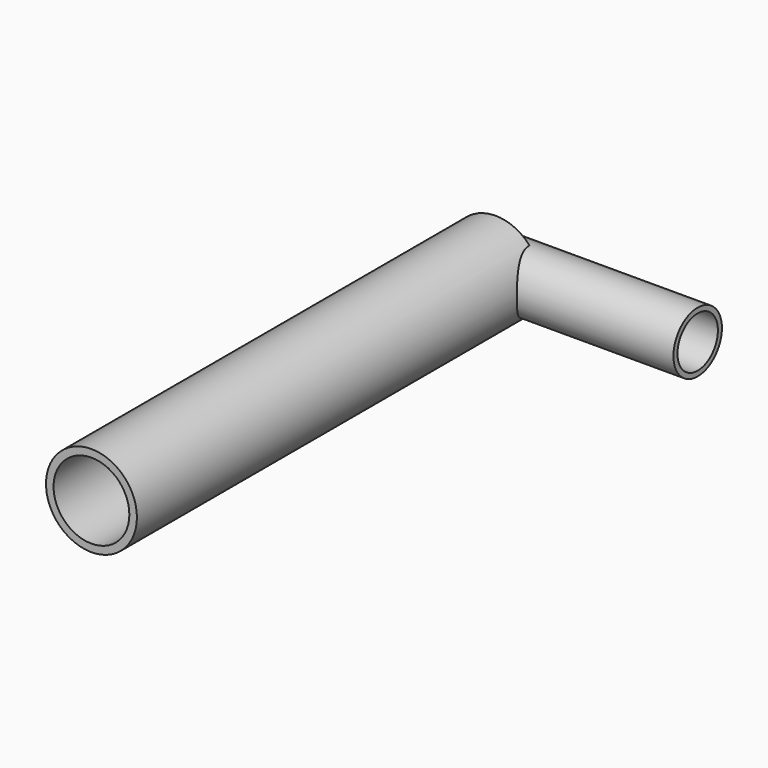
from build123d import *

# Parameters (mm, degrees)
F0_R     = 22.86
F0_R_2   = 19.05
F1_DEPTH = 254
F2_R     = 15.24
F2_R_2   = 12.7
F3_DEPTH = 101.6


with BuildPart() as f1:
    # F0 (on Front) → F1 (new body)
    with BuildSketch(Plane.XZ):
        Circle(F0_R)
        Circle(F0_R_2, mode=Mode.SUBTRACT)
    extrude(amount=F1_DEPTH)

    # F2 (on Right) → F3 (join)
    with BuildSketch(Plane.YZ):
        Circle(F2_R)
        Circle(F2_R_2, mode=Mode.SUBTRACT)
    extrude(amount=F3_DEPTH)


solid = f1.part
